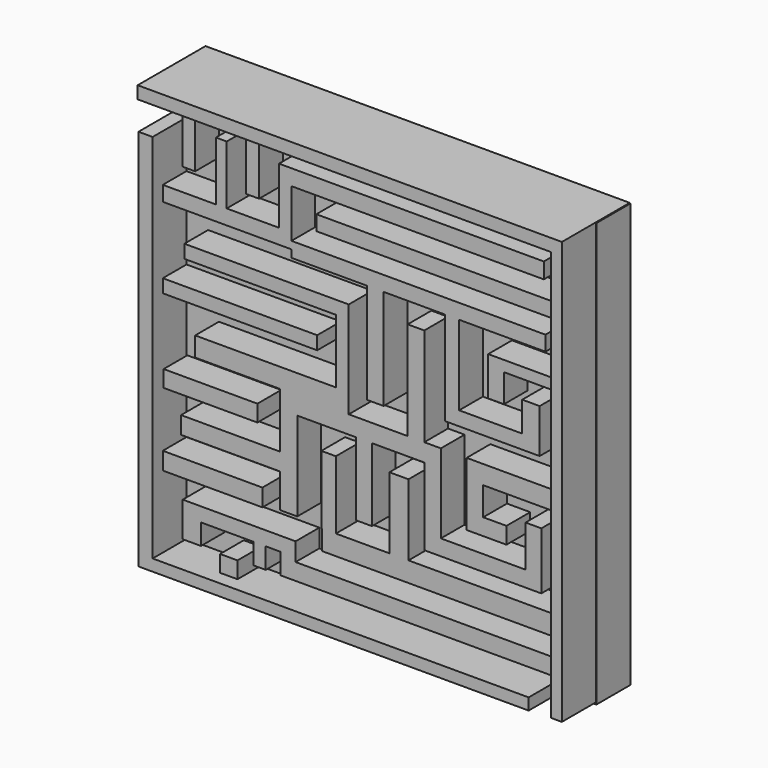
from build123d import *

# Parameters (mm, degrees)
F0_W     = 100
F0_H     = 100
F3_DEPTH = 10
F1_W     = 2.5462172925
F1_H     = 96.7562794685
F1_W_2   = 88.7259021401
F1_H_2   = 2.7420781553
F4_DEPTH = 20
F2_W     = 2.9379464686
F2_H     = 12.5352256
F2_W_2   = 2.5462172925
F2_H_2   = 13.9062739909
F2_W_3   = 3.9172582328
F2_H_3   = 23.699412588
F2_W_4   = 59.5423225313
F2_H_4   = 3.7213973701
F2_W_5   = 4.1131153703
F2_H_5   = 7.0510646328
F2_W_6   = 3.1338073313
F2_H_6   = 13.3186765015
F2_W_7   = 57.7795598656
F2_H_7   = 3.5255327821
F2_W_8   = 3.7213899195
F2_H_8   = 6.6593382508
F2_W_9   = 5.4841600358
F2_H_9   = 3.9172582328
F2_H_10  = 23.2097543776
F2_H_11  = 9.7931455821
F2_W_10  = 3.7213945761
F2_H_12  = 17.2359370627
F2_W_11  = 35.7449837029
F2_H_13  = 3.1338054687
F2_W_12  = 23.3076885343
F2_H_14  = 4.1131218895
F2_W_13  = 4.504846409
F2_H_15  = 16.8442111462
F2_W_14  = 62.480266206
F2_W_15  = 2.9379427433
F2_H_16  = 4.8965737224
F2_W_16  = 4.3089836836
F2_W_17  = 36.4305013791
F2_H_17  = 3.1338064
F2_W_18  = 22.1325084567
F2_W_19  = 23.503549397
F2_H_18  = 4.1131190956
F2_W_20  = 4.1131209582
F5_DEPTH = 17


with BuildPart() as f3:
    # F0 (on Front) → F3 (new body)
    with BuildSketch(Plane.XZ):
        with Locations((5.8758892119, 4.0513307203)):
            Rectangle(F0_W, F0_H)
    extrude(amount=F3_DEPTH)

    # F1 (on face) → F4 (join)
    with BuildSketch(Plane.XZ):
        Polygon((55.7230003178, 54.1560947895), (-44.3629510701, 54.1560947895), (-44.3629510701, 51.2181520462), (53.1767830253, 51.2181520462), (55.7230003178, 51.2181520462), align=None)
        with Locations((54.4498916715, 2.8400123119)):
            Rectangle(F1_W, F1_H)
        Polygon((-44.167086482, 44.5588119328), (-44.167086482, -45.7339882851), (-40.837418288, -45.7339882851), (-40.837418288, -42.9919101298), (-40.837418288, 44.5588119328), align=None)
        with Locations((3.5255327821, -44.3629492074)):
            Rectangle(F1_W_2, F1_H_2)
    extrude(amount=F4_DEPTH)

    # F2 (on face) → F5 (join)
    with BuildSketch(Plane.XZ):
        with Locations((-34.6677359194, 44.9505392462)):
            Rectangle(F2_W, F2_H)
        Polygon((-40.837418288, 33.3946235478), (-40.837418288, 29.869094491), (-10.4786660522, 29.869094491), (-10.4786660522, 31.6318590194), (-10.4786660522, 33.3946235478), (-13.4166097268, 33.3946235478), (-25.7559735328, 33.3946235478), (-28.3021908253, 33.3946235478), align=None)
        Polygon((-10.4786660522, 31.6318590194), (-10.4786660522, 29.869094491), (-10.4786660522, 28.1063281), (7.3448577896, 28.1063281), (11.2621160224, 28.1063281), (25.7559753954, 28.1063281), (29.0856454521, 28.1063281), (49.4553856552, 28.1063281), (49.4553856552, 31.6318590194), align=None)
        with Locations((-27.0290821791, 40.3477605432)):
            Rectangle(F2_W_2, F2_H_2)
        Polygon((-13.4166097268, 33.3946235478), (-10.4786660522, 33.3946235478), (-10.4786660522, 42.9919101298), (-10.4786660522, 46.7133074999), (-13.4166097268, 46.7133074999), align=None)
        with Locations((9.303486906, 16.256621806)):
            Rectangle(F2_W_3, F2_H_3)
        with Locations((19.2924952134, 44.8526088148)):
            Rectangle(F2_W_4, F2_H_4)
        Polygon((29.0856454521, 9.3034887686), (29.0856454521, 28.1063281), (25.7559753954, 28.1063281), (25.7559753954, 5.9738187119), (29.0856454521, 5.9738187119), align=None)
        Polygon((43.9712256193, 9.3034887686), (29.0856454521, 9.3034887686), (29.0856454521, 5.9738187119), (48.0843409896, 5.9738187119), (48.0843409896, 9.3034887686), align=None)
        with Locations((46.0277833045, 12.8290210851)):
            Rectangle(F2_W_5, F2_H_5)
        with Locations((-19.6842234582, 44.5588137954)):
            Rectangle(F2_W_6, F2_H_6)
        with Locations((24.2870030925, 37.3118855059)):
            Rectangle(F2_W_7, F2_H_7)
        Polygon((53.372643888, 20.6635370851), (53.372643888, 23.2097543776), (35.9408482909, 23.2097543776), (35.9408482909, 20.6635370851), (39.6622382104, 20.6635370851), align=None)
        with Locations((37.8015432507, 17.3338679597)):
            Rectangle(F2_W_8, F2_H_8)
        Polygon((53.372643888, -4.4069155119), (53.372643888, 0), (30.8484081179, 0), (30.8484081179, -4.4069155119), (34.7656644881, -4.4069155119), align=None)
        Polygon((34.7656644881, -4.4069155119), (30.8484081179, -4.4069155119), (30.8484081179, -14.9835133925), (34.7656644881, -14.9835133925), (34.7656644881, -11.0662551597), align=None)
        with Locations((37.507744506, -13.0248842761)):
            Rectangle(F2_W_9, F2_H_9)
        Polygon((24.7766599059, -18.7049079686), (24.7766599059, 0), (20.8594016731, 0), (20.8594016731, -4.2110527866), (20.8594016731, -22.4263034761), (24.7766599059, -22.4263034761), align=None)
        Polygon((20.8594016731, -4.2110527866), (20.8594016731, 0), (16.9421434402, 0), (3.0358759686, 0), (0, 0), (0, -4.2110527866), (4.7986414284, -4.2110527866), (8.5200360045, -4.2110527866), align=None)
        with Locations((18.9007725567, 11.6048771888)):
            Rectangle(F2_W_3, F2_H_10)
        Polygon((44.7546802461, -18.7049079686), (24.7766599059, -18.7049079686), (24.7766599059, -22.4263034761), (48.4760701656, -22.4263034761), (48.4760701656, -18.7049079686), align=None)
        with Locations((46.6153752059, -13.8083351776)):
            Rectangle(F2_W_8, F2_H_11)
        with Locations((6.6593387164, -12.8290213179)):
            Rectangle(F2_W_10, F2_H_12)
        Polygon((0, 0), (3.0358759686, 0), (3.0358759686, 22.8180289268), (0, 22.8180289268), (0, 19.6842234582), (0, 4.6027782373), align=None)
        Polygon((-13.2207460701, 0), (0, 0), (0, 4.6027782373), (-33.1987626851, 4.6027782373), (-33.1987626851, 0), align=None)
        Polygon((0, -4.2110527866), (0, 0), (-13.2207460701, 0), (-13.2207460701, -4.2110527866), (-9.1076260433, -4.2110527866), align=None)
        with Locations((-17.8724918514, 21.2511261925)):
            Rectangle(F2_W_11, F2_H_13)
        Polygon((-9.1076260433, -25.168383494), (-9.1076260433, -4.2110527866), (-13.2207460701, -4.2110527866), (-13.2207460701, -13.0248842761), (-13.2207460701, -17.1380061656), (-13.2207460701, -25.168383494), align=None)
        with Locations((-24.8745903373, -15.0814452209)):
            Rectangle(F2_W_12, F2_H_14)
        Polygon((53.1767830253, -30.4566826671), (53.1767830253, -25.7559735328), (17.138004303, -25.7559735328), (12.633157894, -25.7559735328), (12.633157894, -30.4566826671), align=None)
        with Locations((14.8855810985, -17.3338679597)):
            Rectangle(F2_W_13, F2_H_15)
        Polygon((12.633157894, -30.4566826671), (12.633157894, -25.7559735328), (0, -25.7559735328), (-3.2317389268, -25.7559735328), (-3.2317389268, -30.4566826671), align=None)
        Polygon((-3.2317389268, -25.7559735328), (0, -25.7559735328), (0, -9.6952142194), (-3.4276025835, -9.6952142194), (-3.4276025835, -25.7559735328), align=None)
        Polygon((-9.499351494, -30.4566826671), (-13.0248842761, -30.4566826671), (-13.0248842761, -33.7863527238), (-13.0248842761, -38.6829264462), (-9.499351494, -38.6829264462), (-9.499351494, -34.7656682134), align=None)
        Polygon((-13.0248842761, -33.7863527238), (-13.0248842761, -30.4566826671), (-36.1367091537, -30.4566826671), (-36.1367091537, -33.7863527238), (-31.8277254701, -33.7863527238), (-19.4883588701, -33.7863527238), (-16.5504161268, -33.7863527238), align=None)
        with Locations((21.740781609, -36.7242973298)):
            Rectangle(F2_W_14, F2_H_9)
        with Locations((-18.0193874985, -36.234639585)):
            Rectangle(F2_W_15, F2_H_16)
        with Locations((-33.9822173119, -36.234639585)):
            Rectangle(F2_W_16, F2_H_16)
        with Locations((-22.6221675985, 12.4372956343)):
            Rectangle(F2_W_17, F2_H_17)
        with Locations((-29.5752994716, -6.7572705448)):
            Rectangle(F2_W_18, F2_H_9)
        with Locations((-29.0856435895, -23.8952748477)):
            Rectangle(F2_W_19, F2_H_18)
        with Locations((-25.2663167194, -40.8374201506)):
            Rectangle(F2_W_20, F2_H_9)
    extrude(amount=F5_DEPTH)


solid = f3.part
